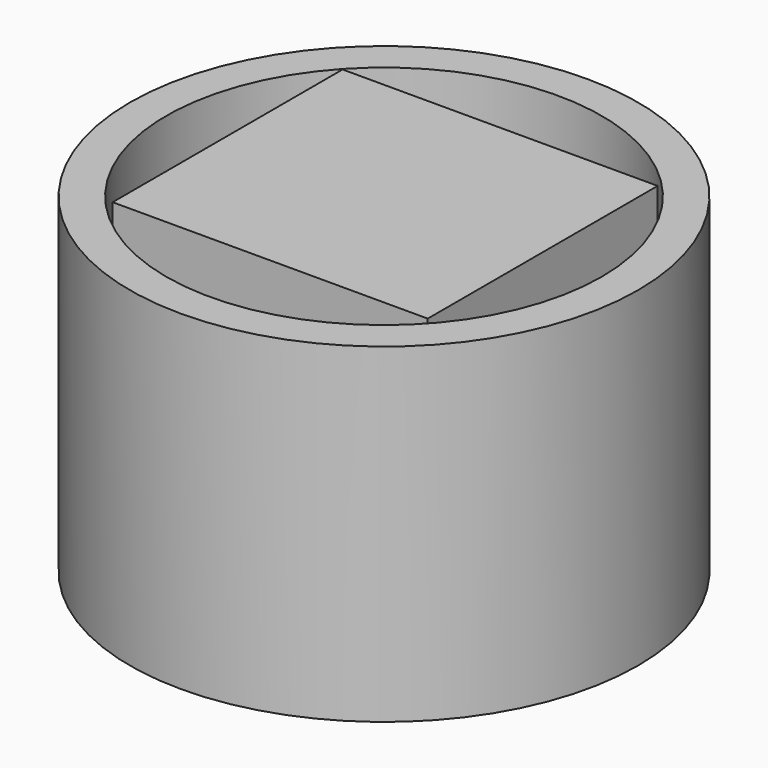
from build123d import *

# Parameters (mm, degrees)
F0_R     = 19.530923
F0_R_2   = 16.739976
F1_DEPTH = 25.4
F2_W     = 24.21679
F2_H     = 22.088956
F3_DEPTH = 25.4


with BuildPart() as f1:
    # F0 (on Top) → F1 (new body)
    with BuildSketch(Plane.XY):
        with Locations((-43.740407, 22.291943)):
            Circle(F0_R)
        with Locations((-43.740407, 22.291943)):
            Circle(F0_R_2, mode=Mode.SUBTRACT)
    extrude(amount=F1_DEPTH)


with BuildPart() as f3:
    # F2 (on Top) → F3 (new body)
    with BuildSketch(Plane.XY):
        with Locations((-43.86949, 22.56362)):
            Rectangle(F2_W, F2_H)
    extrude(amount=F3_DEPTH)


solid = Compound([f1.part, f3.part])
